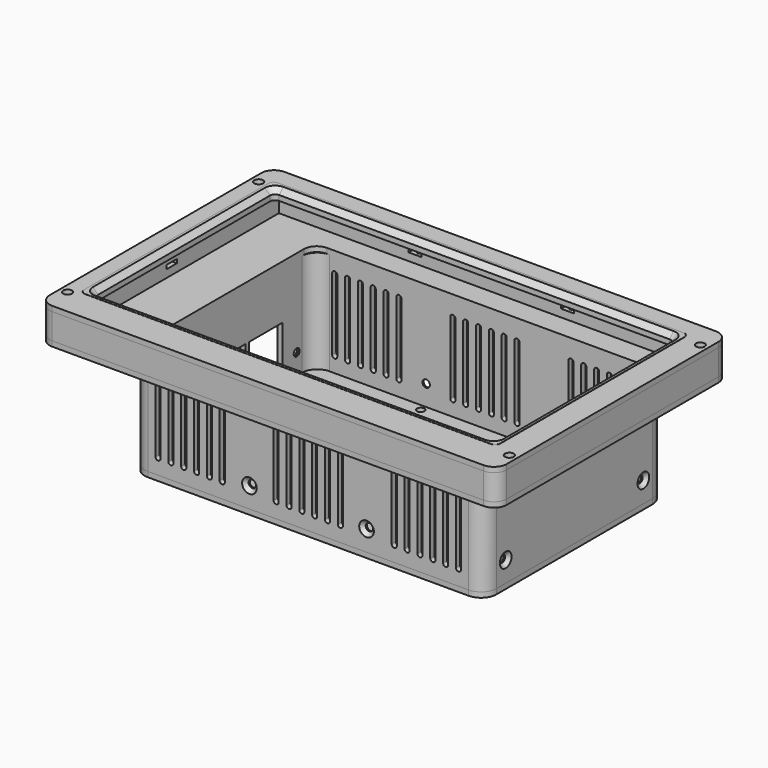
from build123d import *

# Parameters (mm, degrees)
TUBE_R            = 3
TUBE_R_2          = 1.45
TUBE_DEPTH        = 3
CYLINDER021_R     = 1.45
CYLINDER021_DEPTH = 10
CYLINDER020_R     = 1.45
CYLINDER020_DEPTH = 10
BOX017_W          = 10
BOX017_H          = 19
BOX017_DEPTH      = 10
FILLET015_R       = 2
CYLINDER015_R     = 1.45
CYLINDER015_DEPTH = 10
CYLINDER014_R     = 1.45
CYLINDER014_DEPTH = 10
CYLINDER013_R     = 1.45
CYLINDER013_DEPTH = 10
CYLINDER012_R     = 1.45
CYLINDER012_DEPTH = 10
CYLINDER040_R     = 1.45
CYLINDER040_DEPTH = 10
CYLINDER039_R     = 1.45
CYLINDER039_DEPTH = 10
CYLINDER038_R     = 1.45
CYLINDER038_DEPTH = 10
CYLINDER037_R     = 1.45
CYLINDER037_DEPTH = 10
CYLINDER036_R     = 1.45
CYLINDER036_DEPTH = 10
CYLINDER035_R     = 1.45
CYLINDER035_DEPTH = 10
CYLINDER034_R     = 1.45
CYLINDER034_DEPTH = 10
CYLINDER033_R     = 1.45
CYLINDER033_DEPTH = 10
BOX010_W          = 137
BOX010_H          = 88
BOX010_DEPTH      = 2
FILLET014_R       = 6
TUBE001_R         = 3
TUBE001_R_2       = 1.45
TUBE001_DEPTH     = 3
TUBE002_R         = 3
TUBE002_R_2       = 1.45
TUBE002_DEPTH     = 3
TUBE003_R         = 3
TUBE003_R_2       = 1.45
TUBE003_DEPTH     = 3
BOX054_W          = 2
BOX054_H          = 113
BOX054_DEPTH      = 30
BOX053_W          = 2
BOX053_H          = 113
BOX053_DEPTH      = 30
BOX052_W          = 2
BOX052_H          = 113
BOX052_DEPTH      = 30
BOX051_W          = 2
BOX051_H          = 113
BOX051_DEPTH      = 30
BOX050_W          = 2
BOX050_H          = 113
BOX050_DEPTH      = 30
BOX049_W          = 2
BOX049_H          = 113
BOX049_DEPTH      = 30
BOX048_W          = 2
BOX048_H          = 113
BOX048_DEPTH      = 30
BOX047_W          = 2
BOX047_H          = 113
BOX047_DEPTH      = 30
BOX046_W          = 2
BOX046_H          = 113
BOX046_DEPTH      = 30
BOX045_W          = 2
BOX045_H          = 113
BOX045_DEPTH      = 30
BOX044_W          = 2
BOX044_H          = 113
BOX044_DEPTH      = 30
BOX043_W          = 2
BOX043_H          = 113
BOX043_DEPTH      = 30
BOX042_W          = 2
BOX042_H          = 113
BOX042_DEPTH      = 30
BOX041_W          = 2
BOX041_H          = 113
BOX041_DEPTH      = 30
BOX040_W          = 2
BOX040_H          = 113
BOX040_DEPTH      = 30
BOX039_W          = 2
BOX039_H          = 113
BOX039_DEPTH      = 30
BOX038_W          = 2
BOX038_H          = 113
BOX038_DEPTH      = 30
BOX037_W          = 2
BOX037_H          = 113
BOX037_DEPTH      = 30
BOX036_W          = 2
BOX036_H          = 16.3
BOX036_DEPTH      = 16
BOX035_W          = 2
BOX035_H          = 16.3
BOX035_DEPTH      = 16
BOX034_W          = 2
BOX034_H          = 17.3
BOX034_DEPTH      = 14.5
CYLINDER023_R     = 0.9
CYLINDER023_DEPTH = 10
CYLINDER027_R     = 0.9
CYLINDER027_DEPTH = 10
CYLINDER026_R     = 0.9
CYLINDER026_DEPTH = 10
CYLINDER025_R     = 0.9
CYLINDER025_DEPTH = 10
CYLINDER024_R     = 0.9
CYLINDER024_DEPTH = 10
CYLINDER022_R     = 0.9
CYLINDER022_DEPTH = 10
CYLINDER_R        = 1.7
CYLINDER_DEPTH    = 17
CYLINDER003_R     = 1.7
CYLINDER003_DEPTH = 17
CYLINDER002_R     = 1.7
CYLINDER002_DEPTH = 17
CYLINDER001_R     = 1.7
CYLINDER001_DEPTH = 17
BOX005_W          = 133
BOX005_H          = 84
BOX005_DEPTH      = 15
FILLET003_R       = 5
BOX004_W          = 178
BOX004_H          = 113
BOX004_DEPTH      = 2
FILLET004_R       = 5
CYLINDER032_R     = 1.45
CYLINDER032_DEPTH = 108
CYLINDER011_R     = 1.45
CYLINDER011_DEPTH = 157
CYLINDER010_R     = 1.45
CYLINDER010_DEPTH = 155
CYLINDER008_R     = 1.45
CYLINDER008_DEPTH = 108
BOX007_W          = 133
BOX007_H          = 84
BOX007_DEPTH      = 40
BOX008_W          = 137
BOX008_H          = 88
BOX008_DEPTH      = 40
FILLET013_R       = 6
CHAMFER005_SIZE   = 1.4
CHAMFER006_SIZE   = 0.8
FILLET017_R       = 0.99
FILLET018_R       = 0.99
FILLET019_R       = 0.99
FILLET020_R       = 0.99
FILLET021_R       = 0.99
FILLET022_R       = 0.99
FILLET023_R       = 0.99
FILLET024_R       = 0.99
BOX058_W          = 3
BOX058_H          = 93.7
BOX058_DEPTH      = 2
BOX057_W          = 3
BOX057_H          = 93.7
BOX057_DEPTH      = 2
BOX056_W          = 162
BOX056_H          = 3
BOX056_DEPTH      = 2
BOX055_W          = 162
BOX055_H          = 3
BOX055_DEPTH      = 2
BOX023_W          = 5
BOX023_H          = 4
BOX023_DEPTH      = 1.5
BOX022_W          = 6
BOX022_H          = 5
BOX022_DEPTH      = 1.5
BOX021_W          = 6
BOX021_H          = 5
BOX021_DEPTH      = 1.5
BOX020_W          = 5
BOX020_H          = 4
BOX020_DEPTH      = 1.5
BOX019_W          = 5
BOX019_H          = 4
BOX019_DEPTH      = 1.5
BOX018_W          = 5
BOX018_H          = 4
BOX018_DEPTH      = 1.5
BOX006_W          = 156
BOX006_H          = 87.7
BOX006_DEPTH      = 7.05
BOX001_W          = 165.4
BOX001_H          = 104.4
BOX001_DEPTH      = 8.05
BOX_W             = 178
BOX_H             = 113
BOX_DEPTH         = 10.05
FILLET_R          = 5
FILLET025_R       = 2
CHAMFER_SIZE      = 1.99
BOX060_W          = 162.1
BOX060_H          = 93.8
BOX060_DEPTH      = 7.05
FILLET027_R       = 2
BOX059_W          = 178
BOX059_H          = 113
BOX059_DEPTH      = 2
FILLET026_R       = 5


with BuildPart() as spacer:
    # Tube → Tube (new body)
    with BuildSketch(Plane(origin=(109.5, 33.5, -42), x_dir=(1, 0, 0), z_dir=(0, 0, 1))):
        Circle(TUBE_R)
        Circle(TUBE_R_2, mode=Mode.SUBTRACT)
    extrude(amount=TUBE_DEPTH)


with BuildPart() as zylinder021:
    # Cylinder021 → Cylinder021 (new body)
    with BuildSketch(Plane(origin=(152, 61.15, -49), x_dir=(1, 0, 0), z_dir=(0, 0, 1))):
        Circle(CYLINDER021_R)
    extrude(amount=CYLINDER021_DEPTH)


with BuildPart() as zylinder020:
    # Cylinder020 → Cylinder020 (new body)
    with BuildSketch(Plane(origin=(152, 83.85, -49), x_dir=(1, 0, 0), z_dir=(0, 0, 1))):
        Circle(CYLINDER020_R)
    extrude(amount=CYLINDER020_DEPTH)


with BuildPart() as fillet015:
    # Box017 → Box017 (new body)
    with BuildSketch(Plane(origin=(147, 63, -49), x_dir=(1, 0, 0), z_dir=(0, 0, 1))):
        with Locations((5, 9.5)):
            Rectangle(BOX017_W, BOX017_H)
    extrude(amount=BOX017_DEPTH)

    # Fillet015
    fillet015_edges = [fillet015.edges().sort_by_distance(p)[0] for p in [
        (147, 63, -44),
        (147, 82, -44),
        (157, 63, -44),
        (157, 82, -44),
    ]]
    fillet(fillet015_edges, radius=FILLET015_R)


with BuildPart() as zylinder015:
    # Cylinder015 → Cylinder015 (new body)
    with BuildSketch(Plane(origin=(109.5, 82.5, -49), x_dir=(1, 0, 0), z_dir=(0, 0, 1))):
        Circle(CYLINDER015_R)
    extrude(amount=CYLINDER015_DEPTH)


with BuildPart() as zylinder014:
    # Cylinder014 → Cylinder014 (new body)
    with BuildSketch(Plane(origin=(51.5, 33.5, -49), x_dir=(1, 0, 0), z_dir=(0, 0, 1))):
        Circle(CYLINDER014_R)
    extrude(amount=CYLINDER014_DEPTH)


with BuildPart() as zylinder013:
    # Cylinder013 → Cylinder013 (new body)
    with BuildSketch(Plane(origin=(51.5, 82.5, -49), x_dir=(1, 0, 0), z_dir=(0, 0, 1))):
        Circle(CYLINDER013_R)
    extrude(amount=CYLINDER013_DEPTH)


with BuildPart() as zylinder012:
    # Cylinder012 → Cylinder012 (new body)
    with BuildSketch(Plane(origin=(109.5, 33.5, -49), x_dir=(1, 0, 0), z_dir=(0, 0, 1))):
        Circle(CYLINDER012_R)
    extrude(amount=CYLINDER012_DEPTH)


with BuildPart() as zylinder040:
    # Cylinder040 → Cylinder040 (new body)
    with BuildSketch(Plane(origin=(29.5, 24.5, -49), x_dir=(1, 0, 0), z_dir=(0, 0, 1))):
        Circle(CYLINDER040_R)
    extrude(amount=CYLINDER040_DEPTH)


with BuildPart() as zylinder039:
    # Cylinder039 → Cylinder039 (new body)
    with BuildSketch(Plane(origin=(157.5, 24.5, -49), x_dir=(1, 0, 0), z_dir=(0, 0, 1))):
        Circle(CYLINDER039_R)
    extrude(amount=CYLINDER039_DEPTH)


with BuildPart() as zylinder038:
    # Cylinder038 → Cylinder038 (new body)
    with BuildSketch(Plane(origin=(157.5, 91.5, -49), x_dir=(1, 0, 0), z_dir=(0, 0, 1))):
        Circle(CYLINDER038_R)
    extrude(amount=CYLINDER038_DEPTH)


with BuildPart() as zylinder037:
    # Cylinder037 → Cylinder037 (new body)
    with BuildSketch(Plane(origin=(29.5, 91.5, -49), x_dir=(1, 0, 0), z_dir=(0, 0, 1))):
        Circle(CYLINDER037_R)
    extrude(amount=CYLINDER037_DEPTH)


with BuildPart() as zylinder036:
    # Cylinder036 → Cylinder036 (new body)
    with BuildSketch(Plane(origin=(70.5, 18.5, -49), x_dir=(1, 0, 0), z_dir=(0, 0, 1))):
        Circle(CYLINDER036_R)
    extrude(amount=CYLINDER036_DEPTH)


with BuildPart() as zylinder035:
    # Cylinder035 → Cylinder035 (new body)
    with BuildSketch(Plane(origin=(70.5, 97.5, -49), x_dir=(1, 0, 0), z_dir=(0, 0, 1))):
        Circle(CYLINDER035_R)
    extrude(amount=CYLINDER035_DEPTH)


with BuildPart() as zylinder034:
    # Cylinder034 → Cylinder034 (new body)
    with BuildSketch(Plane(origin=(116.1, 18.5, -49), x_dir=(1, 0, 0), z_dir=(0, 0, 1))):
        Circle(CYLINDER034_R)
    extrude(amount=CYLINDER034_DEPTH)


with BuildPart() as zylinder033:
    # Cylinder033 → Cylinder033 (new body)
    with BuildSketch(Plane(origin=(116.1, 97.5, -49), x_dir=(1, 0, 0), z_dir=(0, 0, 1))):
        Circle(CYLINDER033_R)
    extrude(amount=CYLINDER033_DEPTH)


with BuildPart() as backplate:
    # Box010 → Box010 (new body)
    with BuildSketch(Plane(origin=(25, 14, -44), x_dir=(1, 0, 0), z_dir=(0, 0, 1))):
        with Locations((68.5, 44)):
            Rectangle(BOX010_W, BOX010_H)
    extrude(amount=BOX010_DEPTH)

    # Fillet014
    fillet014_edges = [backplate.edges().sort_by_distance(p)[0] for p in [
        (25, 14, -43),
        (25, 102, -43),
        (162, 14, -43),
        (162, 102, -43),
    ]]
    fillet(fillet014_edges, radius=FILLET014_R)

    # Cut093: cut Zylinder033
    add(zylinder033.part, mode=Mode.SUBTRACT)

    # Cut094: cut Zylinder034
    add(zylinder034.part, mode=Mode.SUBTRACT)

    # Cut095: cut Zylinder035
    add(zylinder035.part, mode=Mode.SUBTRACT)

    # Cut096: cut Zylinder036
    add(zylinder036.part, mode=Mode.SUBTRACT)

    # Cut097: cut Zylinder037
    add(zylinder037.part, mode=Mode.SUBTRACT)

    # Cut098: cut Zylinder038
    add(zylinder038.part, mode=Mode.SUBTRACT)

    # Cut099: cut Zylinder039
    add(zylinder039.part, mode=Mode.SUBTRACT)

    # Cut100: cut Zylinder040
    add(zylinder040.part, mode=Mode.SUBTRACT)

    # Cut101: cut Zylinder012
    add(zylinder012.part, mode=Mode.SUBTRACT)

    # Cut102: cut Zylinder013
    add(zylinder013.part, mode=Mode.SUBTRACT)

    # Cut103: cut Zylinder014
    add(zylinder014.part, mode=Mode.SUBTRACT)

    # Cut104: cut Zylinder015
    add(zylinder015.part, mode=Mode.SUBTRACT)

    # Cut108: cut Fillet015
    add(fillet015.part, mode=Mode.SUBTRACT)

    # Cut109: cut Zylinder020
    add(zylinder020.part, mode=Mode.SUBTRACT)

    # Cut110: cut Zylinder021
    add(zylinder021.part, mode=Mode.SUBTRACT)


with BuildPart() as spacer1:
    # Tube001 → Tube001 (new body)
    with BuildSketch(Plane(origin=(51.5, 33.5, -42), x_dir=(1, 0, 0), z_dir=(0, 0, 1))):
        Circle(TUBE001_R)
        Circle(TUBE001_R_2, mode=Mode.SUBTRACT)
    extrude(amount=TUBE001_DEPTH)


with BuildPart() as spacer2:
    # Tube002 → Tube002 (new body)
    with BuildSketch(Plane(origin=(109.5, 82.5, -42), x_dir=(1, 0, 0), z_dir=(0, 0, 1))):
        Circle(TUBE002_R)
        Circle(TUBE002_R_2, mode=Mode.SUBTRACT)
    extrude(amount=TUBE002_DEPTH)


with BuildPart() as spacer3:
    # Tube003 → Tube003 (new body)
    with BuildSketch(Plane(origin=(51.5, 82.5, -42), x_dir=(1, 0, 0), z_dir=(0, 0, 1))):
        Circle(TUBE003_R)
        Circle(TUBE003_R_2, mode=Mode.SUBTRACT)
    extrude(amount=TUBE003_DEPTH)


with BuildPart() as obj1:
    # Box054 → Box054 (new body)
    with BuildSketch(Plane(origin=(151, 0, -37), x_dir=(1, 0, 0), z_dir=(0, 0, 1))):
        with Locations((1, 56.5)):
            Rectangle(BOX054_W, BOX054_H)
    extrude(amount=BOX054_DEPTH)


with BuildPart() as obj2:
    # Box053 → Box053 (new body)
    with BuildSketch(Plane(origin=(146, 0, -37), x_dir=(1, 0, 0), z_dir=(0, 0, 1))):
        with Locations((1, 56.5)):
            Rectangle(BOX053_W, BOX053_H)
    extrude(amount=BOX053_DEPTH)


with BuildPart() as obj3:
    # Box052 → Box052 (new body)
    with BuildSketch(Plane(origin=(141, 0, -37), x_dir=(1, 0, 0), z_dir=(0, 0, 1))):
        with Locations((1, 56.5)):
            Rectangle(BOX052_W, BOX052_H)
    extrude(amount=BOX052_DEPTH)


with BuildPart() as obj4:
    # Box051 → Box051 (new body)
    with BuildSketch(Plane(origin=(136, 0, -37), x_dir=(1, 0, 0), z_dir=(0, 0, 1))):
        with Locations((1, 56.5)):
            Rectangle(BOX051_W, BOX051_H)
    extrude(amount=BOX051_DEPTH)


with BuildPart() as obj5:
    # Box050 → Box050 (new body)
    with BuildSketch(Plane(origin=(131, 0, -37), x_dir=(1, 0, 0), z_dir=(0, 0, 1))):
        with Locations((1, 56.5)):
            Rectangle(BOX050_W, BOX050_H)
    extrude(amount=BOX050_DEPTH)


with BuildPart() as obj6:
    # Box049 → Box049 (new body)
    with BuildSketch(Plane(origin=(126, 0, -37), x_dir=(1, 0, 0), z_dir=(0, 0, 1))):
        with Locations((1, 56.5)):
            Rectangle(BOX049_W, BOX049_H)
    extrude(amount=BOX049_DEPTH)


with BuildPart() as obj7:
    # Box048 → Box048 (new body)
    with BuildSketch(Plane(origin=(105, 0, -37), x_dir=(1, 0, 0), z_dir=(0, 0, 1))):
        with Locations((1, 56.5)):
            Rectangle(BOX048_W, BOX048_H)
    extrude(amount=BOX048_DEPTH)


with BuildPart() as obj8:
    # Box047 → Box047 (new body)
    with BuildSketch(Plane(origin=(100, 0, -37), x_dir=(1, 0, 0), z_dir=(0, 0, 1))):
        with Locations((1, 56.5)):
            Rectangle(BOX047_W, BOX047_H)
    extrude(amount=BOX047_DEPTH)


with BuildPart() as obj9:
    # Box046 → Box046 (new body)
    with BuildSketch(Plane(origin=(95, 0, -37), x_dir=(1, 0, 0), z_dir=(0, 0, 1))):
        with Locations((1, 56.5)):
            Rectangle(BOX046_W, BOX046_H)
    extrude(amount=BOX046_DEPTH)


with BuildPart() as obj10:
    # Box045 → Box045 (new body)
    with BuildSketch(Plane(origin=(90, 0, -37), x_dir=(1, 0, 0), z_dir=(0, 0, 1))):
        with Locations((1, 56.5)):
            Rectangle(BOX045_W, BOX045_H)
    extrude(amount=BOX045_DEPTH)


with BuildPart() as obj11:
    # Box044 → Box044 (new body)
    with BuildSketch(Plane(origin=(85, 0, -37), x_dir=(1, 0, 0), z_dir=(0, 0, 1))):
        with Locations((1, 56.5)):
            Rectangle(BOX044_W, BOX044_H)
    extrude(amount=BOX044_DEPTH)


with BuildPart() as obj12:
    # Box043 → Box043 (new body)
    with BuildSketch(Plane(origin=(80, 0, -37), x_dir=(1, 0, 0), z_dir=(0, 0, 1))):
        with Locations((1, 56.5)):
            Rectangle(BOX043_W, BOX043_H)
    extrude(amount=BOX043_DEPTH)


with BuildPart() as obj13:
    # Box042 → Box042 (new body)
    with BuildSketch(Plane(origin=(59, 0, -37), x_dir=(1, 0, 0), z_dir=(0, 0, 1))):
        with Locations((1, 56.5)):
            Rectangle(BOX042_W, BOX042_H)
    extrude(amount=BOX042_DEPTH)


with BuildPart() as obj14:
    # Box041 → Box041 (new body)
    with BuildSketch(Plane(origin=(54, 0, -37), x_dir=(1, 0, 0), z_dir=(0, 0, 1))):
        with Locations((1, 56.5)):
            Rectangle(BOX041_W, BOX041_H)
    extrude(amount=BOX041_DEPTH)


with BuildPart() as obj15:
    # Box040 → Box040 (new body)
    with BuildSketch(Plane(origin=(49, 0, -37), x_dir=(1, 0, 0), z_dir=(0, 0, 1))):
        with Locations((1, 56.5)):
            Rectangle(BOX040_W, BOX040_H)
    extrude(amount=BOX040_DEPTH)


with BuildPart() as obj16:
    # Box039 → Box039 (new body)
    with BuildSketch(Plane(origin=(44, 0, -37), x_dir=(1, 0, 0), z_dir=(0, 0, 1))):
        with Locations((1, 56.5)):
            Rectangle(BOX039_W, BOX039_H)
    extrude(amount=BOX039_DEPTH)


with BuildPart() as obj17:
    # Box038 → Box038 (new body)
    with BuildSketch(Plane(origin=(39, 0, -37), x_dir=(1, 0, 0), z_dir=(0, 0, 1))):
        with Locations((1, 56.5)):
            Rectangle(BOX038_W, BOX038_H)
    extrude(amount=BOX038_DEPTH)


with BuildPart() as obj18:
    # Box037 → Box037 (new body)
    with BuildSketch(Plane(origin=(34, 0, -37), x_dir=(1, 0, 0), z_dir=(0, 0, 1))):
        with Locations((1, 56.5)):
            Rectangle(BOX037_W, BOX037_H)
    extrude(amount=BOX037_DEPTH)


with BuildPart() as obj19:
    # Box036 → Box036 (new body)
    with BuildSketch(Plane(origin=(25, 68.4, -37), x_dir=(1, 0, 0), z_dir=(0, 0, 1))):
        with Locations((1, 8.15)):
            Rectangle(BOX036_W, BOX036_H)
    extrude(amount=BOX036_DEPTH)


with BuildPart() as obj20:
    # Box035 → Box035 (new body)
    with BuildSketch(Plane(origin=(25, 50.4, -37), x_dir=(1, 0, 0), z_dir=(0, 0, 1))):
        with Locations((1, 8.15)):
            Rectangle(BOX035_W, BOX035_H)
    extrude(amount=BOX035_DEPTH)


with BuildPart() as obj21:
    # Box034 → Box034 (new body)
    with BuildSketch(Plane(origin=(25, 31.5, -37), x_dir=(1, 0, 0), z_dir=(0, 0, 1))):
        with Locations((1, 8.65)):
            Rectangle(BOX034_W, BOX034_H)
    extrude(amount=BOX034_DEPTH)


with BuildPart() as zylinder023:
    # Cylinder023 → Cylinder023 (new body)
    with BuildSketch(Plane(origin=(118.666667, 2.15, -4), x_dir=(1, 0, 0), z_dir=(0, 0, 1))):
        Circle(CYLINDER023_R)
    extrude(amount=CYLINDER023_DEPTH)


with BuildPart() as zylinder027:
    # Cylinder027 → Cylinder027 (new body)
    with BuildSketch(Plane(origin=(174.85, 56.5, -4), x_dir=(1, 0, 0), z_dir=(0, 0, 1))):
        Circle(CYLINDER027_R)
    extrude(amount=CYLINDER027_DEPTH)


with BuildPart() as zylinder026:
    # Cylinder026 → Cylinder026 (new body)
    with BuildSketch(Plane(origin=(3.15, 56.5, -4), x_dir=(1, 0, 0), z_dir=(0, 0, 1))):
        Circle(CYLINDER026_R)
    extrude(amount=CYLINDER026_DEPTH)


with BuildPart() as zylinder025:
    # Cylinder025 → Cylinder025 (new body)
    with BuildSketch(Plane(origin=(118.666667, 110.85, -4), x_dir=(1, 0, 0), z_dir=(0, 0, 1))):
        Circle(CYLINDER025_R)
    extrude(amount=CYLINDER025_DEPTH)


with BuildPart() as zylinder024:
    # Cylinder024 → Cylinder024 (new body)
    with BuildSketch(Plane(origin=(59.333333, 110.85, -4), x_dir=(1, 0, 0), z_dir=(0, 0, 1))):
        Circle(CYLINDER024_R)
    extrude(amount=CYLINDER024_DEPTH)


with BuildPart() as zylinder022:
    # Cylinder022 → Cylinder022 (new body)
    with BuildSketch(Plane(origin=(59.333333, 2.15, -4), x_dir=(1, 0, 0), z_dir=(0, 0, 1))):
        Circle(CYLINDER022_R)
    extrude(amount=CYLINDER022_DEPTH)


with BuildPart() as zylinder:
    # Cylinder → Cylinder (new body)
    with BuildSketch(Plane(origin=(3, 10, -5), x_dir=(1, 0, 0), z_dir=(0, 0, 1))):
        Circle(CYLINDER_R)
    extrude(amount=CYLINDER_DEPTH)


with BuildPart() as zylinder003:
    # Cylinder003 → Cylinder003 (new body)
    with BuildSketch(Plane(origin=(175, 103, -5), x_dir=(1, 0, 0), z_dir=(0, 0, 1))):
        Circle(CYLINDER003_R)
    extrude(amount=CYLINDER003_DEPTH)


with BuildPart() as zylinder002:
    # Cylinder002 → Cylinder002 (new body)
    with BuildSketch(Plane(origin=(175, 10, -5), x_dir=(1, 0, 0), z_dir=(0, 0, 1))):
        Circle(CYLINDER002_R)
    extrude(amount=CYLINDER002_DEPTH)


with BuildPart() as zylinder001:
    # Cylinder001 → Cylinder001 (new body)
    with BuildSketch(Plane(origin=(3, 103, -5), x_dir=(1, 0, 0), z_dir=(0, 0, 1))):
        Circle(CYLINDER001_R)
    extrude(amount=CYLINDER001_DEPTH)


with BuildPart() as fillet003:
    # Box005 → Box005 (new body)
    with BuildSketch(Plane(origin=(27, 16, -14), x_dir=(1, 0, 0), z_dir=(0, 0, 1))):
        with Locations((66.5, 42)):
            Rectangle(BOX005_W, BOX005_H)
    extrude(amount=BOX005_DEPTH)

    # Fillet003
    fillet003_edges = [fillet003.edges().sort_by_distance(p)[0] for p in [
        (27, 16, -6.5),
        (27, 100, -6.5),
        (160, 16, -6.5),
        (160, 100, -6.5),
    ]]
    fillet(fillet003_edges, radius=FILLET003_R)


with BuildPart() as cut066:
    # Box004 → Box004 (new body)
    with BuildSketch(Plane.XY.offset(-2)):
        with Locations((89, 56.5)):
            Rectangle(BOX004_W, BOX004_H)
    extrude(amount=BOX004_DEPTH)

    # Cut011: cut Fillet003
    add(fillet003.part, mode=Mode.SUBTRACT)

    # Cut012: cut Zylinder001
    add(zylinder001.part, mode=Mode.SUBTRACT)

    # Cut013: cut Zylinder002
    add(zylinder002.part, mode=Mode.SUBTRACT)

    # Cut014: cut Zylinder003
    add(zylinder003.part, mode=Mode.SUBTRACT)

    # Cut015: cut Zylinder
    add(zylinder.part, mode=Mode.SUBTRACT)

    # Fillet004
    fillet004_edges = [cut066.edges().sort_by_distance(p)[0] for p in [
        (0, 0, -1),
        (0, 113, -1),
        (178, 0, -1),
        (178, 113, -1),
    ]]
    fillet(fillet004_edges, radius=FILLET004_R)

    # Cut060: cut Zylinder022
    add(zylinder022.part, mode=Mode.SUBTRACT)

    # Cut061: cut Zylinder022
    add(zylinder022.part, mode=Mode.SUBTRACT)

    # Cut062: cut Zylinder024
    add(zylinder024.part, mode=Mode.SUBTRACT)

    # Cut063: cut Zylinder025
    add(zylinder025.part, mode=Mode.SUBTRACT)

    # Cut064: cut Zylinder026
    add(zylinder026.part, mode=Mode.SUBTRACT)

    # Cut065: cut Zylinder027
    add(zylinder027.part, mode=Mode.SUBTRACT)

    # Cut066: cut Zylinder023
    add(zylinder023.part, mode=Mode.SUBTRACT)


with BuildPart() as zylinder032:
    # Cylinder032 → Cylinder032 (new body)
    with BuildSketch(Plane(origin=(70.6, 114, -34), x_dir=(1, 0, 0), z_dir=(0, -1, 0))):
        Circle(CYLINDER032_R)
    extrude(amount=CYLINDER032_DEPTH)


with BuildPart() as zylinder011:
    # Cylinder011 → Cylinder011 (new body)
    with BuildSketch(Plane(origin=(14, 91.5, -34), x_dir=(0, 0, -1), z_dir=(1, 0, 0))):
        Circle(CYLINDER011_R)
    extrude(amount=CYLINDER011_DEPTH)


with BuildPart() as zylinder010:
    # Cylinder010 → Cylinder010 (new body)
    with BuildSketch(Plane(origin=(14, 24.5, -34), x_dir=(0, 0, -1), z_dir=(1, 0, 0))):
        Circle(CYLINDER010_R)
    extrude(amount=CYLINDER010_DEPTH)


with BuildPart() as zylinder008:
    # Cylinder008 → Cylinder008 (new body)
    with BuildSketch(Plane(origin=(116.2, 114, -34), x_dir=(1, 0, 0), z_dir=(0, -1, 0))):
        Circle(CYLINDER008_R)
    extrude(amount=CYLINDER008_DEPTH)


with BuildPart() as obj22:
    # Box007 → Box007 (new body)
    with BuildSketch(Plane(origin=(27, 16, -42), x_dir=(1, 0, 0), z_dir=(0, 0, 1))):
        with Locations((66.5, 42)):
            Rectangle(BOX007_W, BOX007_H)
    extrude(amount=BOX007_DEPTH)


with BuildPart() as housing:
    # Box008 → Box008 (new body)
    with BuildSketch(Plane(origin=(25, 14, -42), x_dir=(1, 0, 0), z_dir=(0, 0, 1))):
        with Locations((68.5, 44)):
            Rectangle(BOX008_W, BOX008_H)
    extrude(amount=BOX008_DEPTH)

    # Cut054: cut obj22
    add(obj22.part, mode=Mode.SUBTRACT)

    # Cut089: cut Zylinder008
    add(zylinder008.part, mode=Mode.SUBTRACT)

    # Cut090: cut Zylinder010
    add(zylinder010.part, mode=Mode.SUBTRACT)

    # Cut091: cut Zylinder011
    add(zylinder011.part, mode=Mode.SUBTRACT)

    # Cut092: cut Zylinder032
    add(zylinder032.part, mode=Mode.SUBTRACT)

    # Fillet013
    fillet013_edges = [housing.edges().sort_by_distance(p)[0] for p in [
        (25, 14, -22),
        (25, 102, -22),
        (162, 14, -22),
        (162, 102, -22),
        (27, 16, -22),
        (27, 100, -22),
        (160, 16, -22),
        (160, 100, -22),
    ]]
    fillet(fillet013_edges, radius=FILLET013_R)

    # Chamfer005
    chamfer005_edges = [housing.edges().sort_by_distance(p)[0] for p in [
        (25, 91.5, -32.55),
        (25, 24.5, -32.55),
        (69.15, 14, -34),
        (114.75, 14, -34),
        (69.15, 102, -34),
        (114.75, 102, -34),
        (162, 91.5, -32.55),
        (162, 24.5, -32.55),
    ]]
    chamfer(chamfer005_edges, length=CHAMFER005_SIZE)

    # Fusion021: union Cut066
    add(cut066.part)

    # Chamfer006
    chamfer006_edges = [housing.edges().sort_by_distance(p)[0] for p in [
        (58.433333, 2.15, -2),
        (117.766667, 2.15, -2),
        (2.25, 56.5, -2),
        (58.433333, 110.85, -2),
        (173.95, 56.5, -2),
        (117.766667, 110.85, -2),
    ]]
    chamfer(chamfer006_edges, length=CHAMFER006_SIZE)

    # Cut105: cut obj21
    add(obj21.part, mode=Mode.SUBTRACT)

    # Cut106: cut obj20
    add(obj20.part, mode=Mode.SUBTRACT)

    # Cut107: cut obj19
    add(obj19.part, mode=Mode.SUBTRACT)

    # Cut111: cut obj18
    add(obj18.part, mode=Mode.SUBTRACT)

    # Cut112: cut obj17
    add(obj17.part, mode=Mode.SUBTRACT)

    # Cut113: cut obj16
    add(obj16.part, mode=Mode.SUBTRACT)

    # Cut114: cut obj15
    add(obj15.part, mode=Mode.SUBTRACT)

    # Cut115: cut obj14
    add(obj14.part, mode=Mode.SUBTRACT)

    # Cut116: cut obj13
    add(obj13.part, mode=Mode.SUBTRACT)

    # Cut117: cut obj12
    add(obj12.part, mode=Mode.SUBTRACT)

    # Cut118: cut obj11
    add(obj11.part, mode=Mode.SUBTRACT)

    # Cut119: cut obj10
    add(obj10.part, mode=Mode.SUBTRACT)

    # Cut120: cut obj9
    add(obj9.part, mode=Mode.SUBTRACT)

    # Cut121: cut obj8
    add(obj8.part, mode=Mode.SUBTRACT)

    # Cut122: cut obj7
    add(obj7.part, mode=Mode.SUBTRACT)

    # Cut123: cut obj6
    add(obj6.part, mode=Mode.SUBTRACT)

    # Cut124: cut obj5
    add(obj5.part, mode=Mode.SUBTRACT)

    # Cut125: cut obj4
    add(obj4.part, mode=Mode.SUBTRACT)

    # Cut126: cut obj3
    add(obj3.part, mode=Mode.SUBTRACT)

    # Cut127: cut obj2
    add(obj2.part, mode=Mode.SUBTRACT)

    # Cut128: cut obj1
    add(obj1.part, mode=Mode.SUBTRACT)

    # Fillet017
    fillet017_edges = [housing.edges().sort_by_distance(p)[0] for p in [
        (34, 101, -7),
        (36, 101, -7),
        (34, 101, -37),
        (36, 101, -37),
        (39, 101, -7),
        (41, 101, -7),
        (39, 101, -37),
        (41, 101, -37),
        (44, 101, -7),
        (46, 101, -7),
        (44, 101, -37),
        (46, 101, -37),
        (49, 101, -7),
        (51, 101, -7),
        (49, 101, -37),
        (51, 101, -37),
        (54, 101, -7),
        (56, 101, -7),
        (54, 101, -37),
        (56, 101, -37),
        (59, 101, -7),
        (61, 101, -7),
        (59, 101, -37),
        (61, 101, -37),
    ]]
    fillet(fillet017_edges, radius=FILLET017_R)

    # Fillet018
    fillet018_edges = [housing.edges().sort_by_distance(p)[0] for p in [
        (80, 101, -7),
        (82, 101, -7),
        (80, 101, -37),
        (82, 101, -37),
        (85, 101, -7),
        (87, 101, -7),
        (85, 101, -37),
        (87, 101, -37),
        (90, 101, -7),
        (92, 101, -7),
        (90, 101, -37),
        (92, 101, -37),
        (95, 101, -7),
        (97, 101, -7),
        (95, 101, -37),
        (97, 101, -37),
        (100, 101, -7),
        (102, 101, -7),
        (100, 101, -37),
        (102, 101, -37),
        (107, 101, -7),
        (105, 101, -37),
        (107, 101, -37),
    ]]
    fillet(fillet018_edges, radius=FILLET018_R)

    # Fillet019
    fillet019_edges = [housing.edges().sort_by_distance(p)[0] for p in [
        (105, 101, -7),
    ]]
    fillet(fillet019_edges, radius=FILLET019_R)

    # Fillet020
    fillet020_edges = [housing.edges().sort_by_distance(p)[0] for p in [
        (126, 101, -7),
        (128, 101, -7),
        (126, 101, -37),
        (128, 101, -37),
        (131, 101, -7),
        (133, 101, -7),
        (131, 101, -37),
        (133, 101, -37),
        (136, 101, -7),
        (138, 101, -7),
        (136, 101, -37),
        (138, 101, -37),
        (141, 101, -7),
        (143, 101, -7),
        (141, 101, -37),
        (143, 101, -37),
        (146, 101, -7),
        (148, 101, -7),
        (146, 101, -37),
        (148, 101, -37),
        (151, 101, -7),
        (153, 101, -7),
        (151, 101, -37),
        (153, 101, -37),
    ]]
    fillet(fillet020_edges, radius=FILLET020_R)

    # Fillet021
    fillet021_edges = [housing.edges().sort_by_distance(p)[0] for p in [
        (126, 15, -7),
        (128, 15, -7),
        (128, 15, -37),
        (131, 15, -7),
        (133, 15, -7),
        (131, 15, -37),
        (133, 15, -37),
        (136, 15, -7),
        (138, 15, -7),
        (136, 15, -37),
        (138, 15, -37),
        (141, 15, -7),
        (143, 15, -7),
        (141, 15, -37),
        (143, 15, -37),
        (146, 15, -7),
        (148, 15, -7),
        (146, 15, -37),
        (148, 15, -37),
        (151, 15, -7),
        (153, 15, -7),
        (153, 15, -37),
        (151, 15, -37),
    ]]
    fillet(fillet021_edges, radius=FILLET021_R)

    # Fillet022
    fillet022_edges = [housing.edges().sort_by_distance(p)[0] for p in [
        (126, 15, -37),
    ]]
    fillet(fillet022_edges, radius=FILLET022_R)

    # Fillet023
    fillet023_edges = [housing.edges().sort_by_distance(p)[0] for p in [
        (80, 15, -7),
        (82, 15, -7),
        (80, 15, -37),
        (82, 15, -37),
        (85, 15, -7),
        (87, 15, -7),
        (85, 15, -37),
        (87, 15, -37),
        (90, 15, -7),
        (92, 15, -7),
        (90, 15, -37),
        (92, 15, -37),
        (95, 15, -7),
        (97, 15, -7),
        (95, 15, -37),
        (97, 15, -37),
        (100, 15, -7),
        (102, 15, -7),
        (100, 15, -37),
        (102, 15, -37),
        (105, 15, -7),
        (107, 15, -7),
        (105, 15, -37),
        (107, 15, -37),
    ]]
    fillet(fillet023_edges, radius=FILLET023_R)

    # Fillet024
    fillet024_edges = [housing.edges().sort_by_distance(p)[0] for p in [
        (34, 15, -7),
        (36, 15, -7),
        (34, 15, -37),
        (36, 15, -37),
        (39, 15, -7),
        (41, 15, -7),
        (39, 15, -37),
        (41, 15, -37),
        (44, 15, -7),
        (46, 15, -7),
        (44, 15, -37),
        (46, 15, -37),
        (49, 15, -7),
        (51, 15, -7),
        (49, 15, -37),
        (51, 15, -37),
        (54, 15, -7),
        (56, 15, -7),
        (54, 15, -37),
        (56, 15, -37),
        (59, 15, -7),
        (61, 15, -7),
        (59, 15, -37),
        (61, 15, -37),
    ]]
    fillet(fillet024_edges, radius=FILLET024_R)


with BuildPart() as obj23:
    # Box058 → Box058 (new body)
    with BuildSketch(Plane(origin=(165, 12.3, 10.05), x_dir=(1, 0, 0), z_dir=(0, 0, 1))):
        with Locations((1.5, 46.85)):
            Rectangle(BOX058_W, BOX058_H)
    extrude(amount=BOX058_DEPTH)


with BuildPart() as obj24:
    # Box057 → Box057 (new body)
    with BuildSketch(Plane(origin=(6, 12.3, 10.05), x_dir=(1, 0, 0), z_dir=(0, 0, 1))):
        with Locations((1.5, 46.85)):
            Rectangle(BOX057_W, BOX057_H)
    extrude(amount=BOX057_DEPTH)


with BuildPart() as obj25:
    # Box056 → Box056 (new body)
    with BuildSketch(Plane(origin=(6, 103, 10.05), x_dir=(1, 0, 0), z_dir=(0, 0, 1))):
        with Locations((81, 1.5)):
            Rectangle(BOX056_W, BOX056_H)
    extrude(amount=BOX056_DEPTH)


with BuildPart() as obj26:
    # Box055 → Box055 (new body)
    with BuildSketch(Plane(origin=(6, 12.3, 10.05), x_dir=(1, 0, 0), z_dir=(0, 0, 1))):
        with Locations((81, 1.5)):
            Rectangle(BOX055_W, BOX055_H)
    extrude(amount=BOX055_DEPTH)


with BuildPart() as obj27:
    # Box023 → Box023 (new body)
    with BuildSketch(Plane(origin=(116.167, 108.5, 3), x_dir=(1, 0, 0), z_dir=(0, 0, 1))):
        with Locations((2.5, 2)):
            Rectangle(BOX023_W, BOX023_H)
    extrude(amount=BOX023_DEPTH)


with BuildPart() as obj28:
    # Box022 → Box022 (new body)
    with BuildSketch(Plane(origin=(170.7, 54, 3), x_dir=(1, 0, 0), z_dir=(0, 0, 1))):
        with Locations((3, 2.5)):
            Rectangle(BOX022_W, BOX022_H)
    extrude(amount=BOX022_DEPTH)


with BuildPart() as obj29:
    # Box021 → Box021 (new body)
    with BuildSketch(Plane(origin=(1.3, 54, 3), x_dir=(1, 0, 0), z_dir=(0, 0, 1))):
        with Locations((3, 2.5)):
            Rectangle(BOX021_W, BOX021_H)
    extrude(amount=BOX021_DEPTH)


with BuildPart() as obj30:
    # Box020 → Box020 (new body)
    with BuildSketch(Plane(origin=(56.8333, 108.5, 3), x_dir=(1, 0, 0), z_dir=(0, 0, 1))):
        with Locations((2.5, 2)):
            Rectangle(BOX020_W, BOX020_H)
    extrude(amount=BOX020_DEPTH)


with BuildPart() as obj31:
    # Box019 → Box019 (new body)
    with BuildSketch(Plane(origin=(116.167, 0.5, 3), x_dir=(1, 0, 0), z_dir=(0, 0, 1))):
        with Locations((2.5, 2)):
            Rectangle(BOX019_W, BOX019_H)
    extrude(amount=BOX019_DEPTH)


with BuildPart() as obj32:
    # Box018 → Box018 (new body)
    with BuildSketch(Plane(origin=(56.8333, 0.5, 3), x_dir=(1, 0, 0), z_dir=(0, 0, 1))):
        with Locations((2.5, 2)):
            Rectangle(BOX018_W, BOX018_H)
    extrude(amount=BOX018_DEPTH)


with BuildPart() as obj33:
    # Box006 → Box006 (new body)
    with BuildSketch(Plane(origin=(9, 15.3, 3), x_dir=(1, 0, 0), z_dir=(0, 0, 1))):
        with Locations((78, 43.85)):
            Rectangle(BOX006_W, BOX006_H)
    extrude(amount=BOX006_DEPTH)


with BuildPart() as obj34:
    # Box001 → Box001 (new body)
    with BuildSketch(Plane(origin=(6.3, 4.3, 0), x_dir=(1, 0, 0), z_dir=(0, 0, 1))):
        with Locations((82.7, 52.2)):
            Rectangle(BOX001_W, BOX001_H)
    extrude(amount=BOX001_DEPTH)


with BuildPart() as frame:
    # Box → Box (new body)
    with BuildSketch(Plane.XY):
        with Locations((89, 56.5)):
            Rectangle(BOX_W, BOX_H)
    extrude(amount=BOX_DEPTH)

    # Cut: cut obj34
    add(obj34.part, mode=Mode.SUBTRACT)

    # Cut038: cut obj33
    add(obj33.part, mode=Mode.SUBTRACT)

    # Fillet
    fillet_edges = [frame.edges().sort_by_distance(p)[0] for p in [
        (0, 0, 5.025),
        (0, 113, 5.025),
        (178, 0, 5.025),
        (178, 113, 5.025),
    ]]
    fillet(fillet_edges, radius=FILLET_R)

    # Cut129: cut obj32
    add(obj32.part, mode=Mode.SUBTRACT)

    # Cut130: cut obj31
    add(obj31.part, mode=Mode.SUBTRACT)

    # Cut131: cut obj30
    add(obj30.part, mode=Mode.SUBTRACT)

    # Cut132: cut obj29
    add(obj29.part, mode=Mode.SUBTRACT)

    # Cut133: cut obj28
    add(obj28.part, mode=Mode.SUBTRACT)

    # Cut134: cut obj27
    add(obj27.part, mode=Mode.SUBTRACT)

    # Cut135: cut Zylinder023
    add(zylinder023.part, mode=Mode.SUBTRACT)

    # Cut136: cut Zylinder024
    add(zylinder024.part, mode=Mode.SUBTRACT)

    # Cut137: cut Zylinder025
    add(zylinder025.part, mode=Mode.SUBTRACT)

    # Cut138: cut Zylinder026
    add(zylinder026.part, mode=Mode.SUBTRACT)

    # Cut139: cut Zylinder027
    add(zylinder027.part, mode=Mode.SUBTRACT)

    # Cut140: cut Zylinder022
    add(zylinder022.part, mode=Mode.SUBTRACT)

    # Cut141: cut Zylinder
    add(zylinder.part, mode=Mode.SUBTRACT)

    # Cut142: cut Zylinder001
    add(zylinder001.part, mode=Mode.SUBTRACT)

    # Cut143: cut Zylinder002
    add(zylinder002.part, mode=Mode.SUBTRACT)

    # Cut144: cut Zylinder003
    add(zylinder003.part, mode=Mode.SUBTRACT)

    # Fusion: union obj26
    add(obj26.part)

    # Fusion022: union obj25
    add(obj25.part)

    # Fusion023: union obj24
    add(obj24.part)

    # Fusion024: union obj23
    add(obj23.part)

    # Fillet025
    fillet025_edges = [frame.edges().sort_by_distance(p)[0] for p in [
        (168, 12.3, 11.05),
        (6, 12.3, 11.05),
        (168, 106, 11.05),
        (6, 106, 11.05),
        (165, 15.3, 11.05),
        (9, 15.3, 11.05),
        (165, 103, 11.05),
        (9, 103, 11.05),
    ]]
    fillet(fillet025_edges, radius=FILLET025_R)

    # Chamfer
    chamfer_edges = [frame.edges().sort_by_distance(p)[0] for p in [
        (9, 59.15, 12.05),
    ]]
    chamfer(chamfer_edges, length=CHAMFER_SIZE)


with BuildPart() as fillet027:
    # Box060 → Box060 (new body)
    with BuildSketch(Plane(origin=(5.95, 12.25, 5), x_dir=(1, 0, 0), z_dir=(0, 0, 1))):
        with Locations((81.05, 46.9)):
            Rectangle(BOX060_W, BOX060_H)
    extrude(amount=BOX060_DEPTH)

    # Fillet027
    fillet027_edges = [fillet027.edges().sort_by_distance(p)[0] for p in [
        (5.95, 12.25, 8.525),
        (5.95, 106.05, 8.525),
        (168.05, 12.25, 8.525),
        (168.05, 106.05, 8.525),
    ]]
    fillet(fillet027_edges, radius=FILLET027_R)


with BuildPart() as template:
    # Box059 → Box059 (new body)
    with BuildSketch(Plane.XY.offset(10)):
        with Locations((89, 56.5)):
            Rectangle(BOX059_W, BOX059_H)
    extrude(amount=BOX059_DEPTH)

    # Fillet026
    fillet026_edges = [template.edges().sort_by_distance(p)[0] for p in [
        (0, 0, 11),
        (0, 113, 11),
        (178, 0, 11),
        (178, 113, 11),
    ]]
    fillet(fillet026_edges, radius=FILLET026_R)

    # Cut145: cut Zylinder
    add(zylinder.part, mode=Mode.SUBTRACT)

    # Cut146: cut Zylinder001
    add(zylinder001.part, mode=Mode.SUBTRACT)

    # Cut147: cut Zylinder002
    add(zylinder002.part, mode=Mode.SUBTRACT)

    # Cut148: cut Zylinder003
    add(zylinder003.part, mode=Mode.SUBTRACT)

    # Cut149: cut Fillet027
    add(fillet027.part, mode=Mode.SUBTRACT)


solid = Compound([spacer.part, backplate.part, spacer1.part, spacer2.part, spacer3.part, housing.part, frame.part, template.part])
